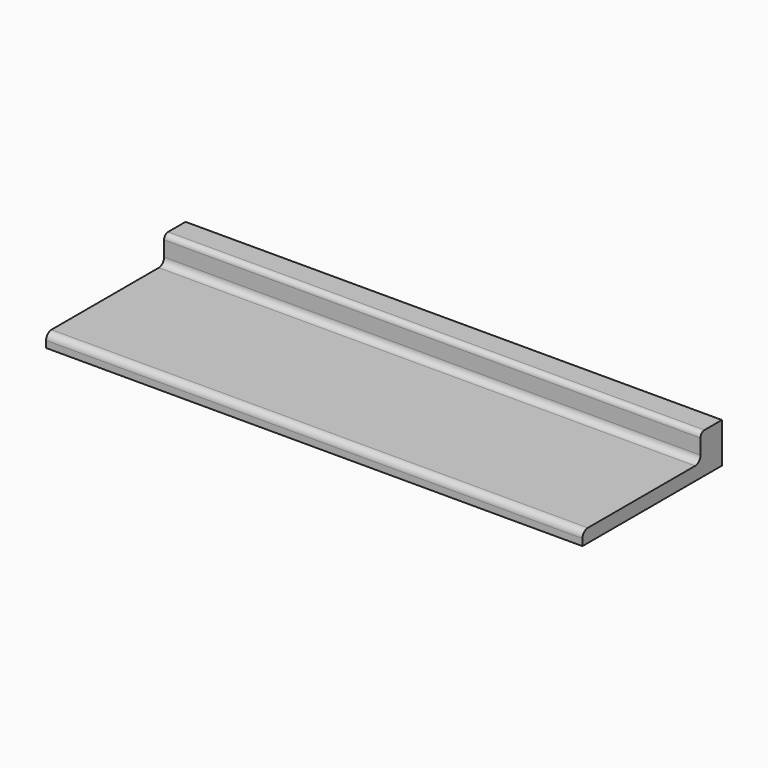
from build123d import *

# Parameters (mm, degrees)
F1_DEPTH = 2032
F2_T     = -12.7


with BuildPart() as f1:
    # F0 (on Right) → F1 (new body)
    with BuildSketch(Plane.YZ):
        with BuildLine():
            Line((345.394381, 0), (-162.605619, 0))
            ThreePointArc((-162.605619, 0), (-180.566132, -7.439488), (-188.005619, -25.4))
            Line((-188.005619, -25.4), (-188.005619, -50.8))
            Line((-188.005619, -50.8), (472.394381, -50.8))
            Line((472.394381, -50.8), (472.394381, 101.6))
            Line((472.394381, 101.6), (389.844381, 101.6))
            ThreePointArc((389.844381, 101.6), (376.373996, 96.020384), (370.794381, 82.55))
            Line((370.794381, 82.55), (370.794381, 25.4))
            ThreePointArc((370.794381, 25.4), (363.354893, 7.439488), (345.394381, 0))
        make_face()
    extrude(amount=F1_DEPTH)

    # F2
    f2_openings = [f1.faces().sort_by_distance(p)[0] for p in [
        (1016, 142.194381, -50.8),
    ]]
    offset(amount=F2_T, openings=f2_openings)


solid = f1.part
